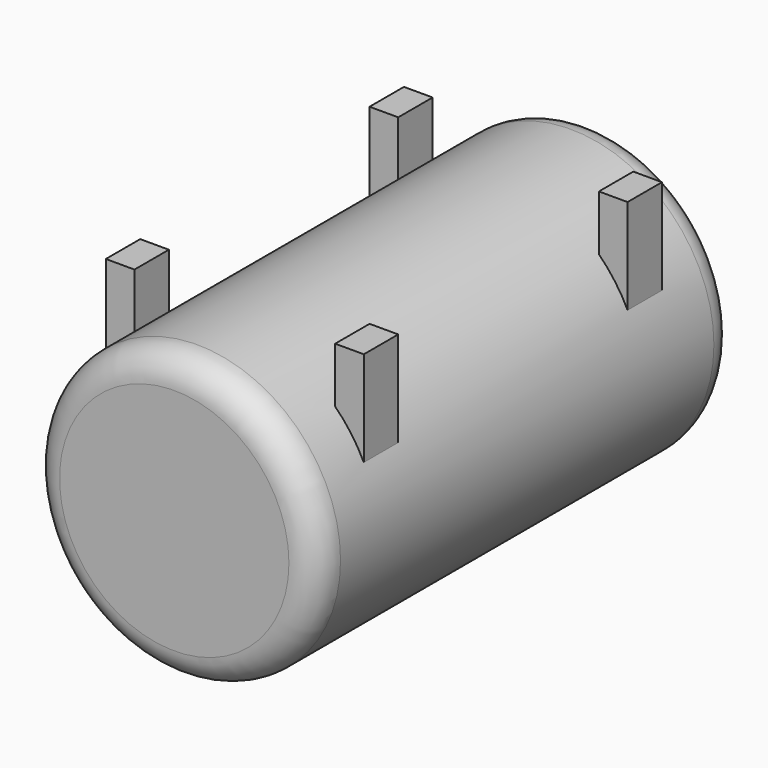
from build123d import *

# Parameters (mm, degrees)
F0_R          = 500
F1_DEPTH      = 914
F1_DEPTH_BACK = 914
F2_R          = 100
F4_W          = 100
F4_H          = 150
F5_DEPTH      = 283.055052823
F5_DEPTH_BACK = 50
F7_R          = 19.05
F8_DEPTH      = 25


with BuildPart() as f1:
    # F0 (on Front) → F1 (new body, two sides)
    with BuildSketch(Plane.XZ) as f1_sk:
        Circle(F0_R)
    extrude(amount=F1_DEPTH)
    extrude(f1_sk.sketch, amount=-F1_DEPTH_BACK)

    # F2
    f2_edges = [f1.edges().sort_by_distance(p)[0] for p in [
        (-500, -914, 0),
        (-500, 914, 0),
    ]]
    fillet(f2_edges, radius=F2_R)

    # F4 (on offset) → F5 (join, two sides)
    with BuildSketch(Plane.XY.offset(500)) as f5_sk:
        with Locations((-400, 575)):
            Rectangle(F4_W, F4_H)
        with Locations((400, 575)):
            Rectangle(F4_W, F4_H)
        with Locations((400, -575)):
            Rectangle(F4_W, F4_H)
        with Locations((-400, -575)):
            Rectangle(F4_W, F4_H)
    extrude(amount=-F5_DEPTH)
    extrude(f5_sk.sketch, amount=F5_DEPTH_BACK)

    # F7 (on offset) → F8 (cut)
    with BuildSketch(Plane.XY.offset(-500)):
        with Locations((0, -600)):
            Circle(F7_R)
        with Locations((0, -500)):
            Circle(F7_R)
        with Locations((0, -400)):
            Circle(F7_R)
        with Locations((0, 500)):
            Circle(F7_R)
        with Locations((0, 400)):
            Circle(F7_R)
        with Locations((0, 600)):
            Circle(F7_R)
    extrude(amount=F8_DEPTH, mode=Mode.SUBTRACT)


solid = f1.part
